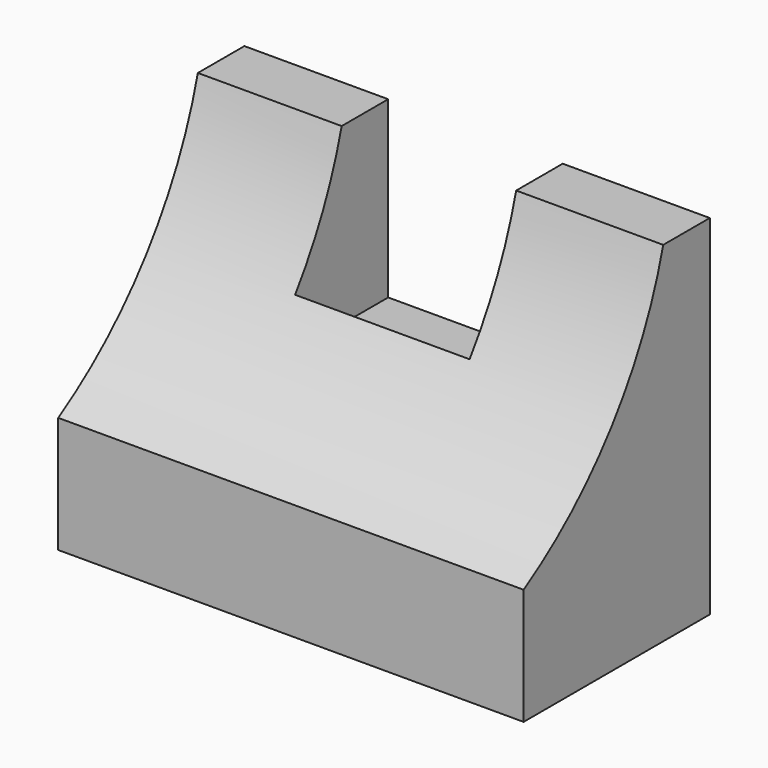
from build123d import *

# Parameters (mm, degrees)
F0_W     = 50.8
F0_H     = 38.1
F1_DEPTH = 25.4
F3_DEPTH = 50.8
F4_W     = 19.05
F4_H     = 12.7
F5_DEPTH = 19.05


with BuildPart() as f1:
    # F0 (on Front) → F1 (new body)
    with BuildSketch(Plane.XZ):
        with Locations((16.882635, 19.05)):
            Rectangle(F0_W, F0_H)
    extrude(amount=F1_DEPTH)

    # F2 (on face) → F3 (cut)
    with BuildSketch(Plane.YZ.offset(42.282635)):
        with BuildLine():
            Line((-25.4, 38.1), (-25.4, 12.7))
            ThreePointArc((-25.4, 12.7), (-13.381807, 23.530105), (-6.35, 38.1))
            Line((-6.35, 38.1), (-25.4, 38.1))
        make_face()
    extrude(amount=-F3_DEPTH, mode=Mode.SUBTRACT)

    # F4 (on face) → F5 (cut)
    with BuildSketch(Plane.XY.offset(38.1)):
        with Locations((16.705383, -6.35)):
            Rectangle(F4_W, F4_H)
    extrude(amount=-F5_DEPTH, mode=Mode.SUBTRACT)


solid = f1.part
